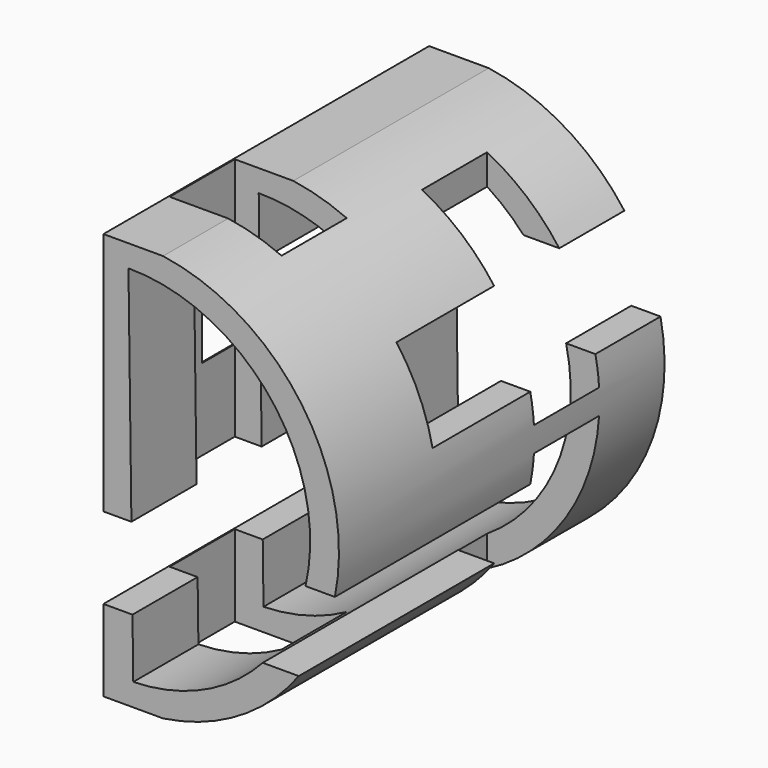
from build123d import *

# Parameters (mm, degrees)
F0_W     = 50.8
F0_H     = 50.799992591
F1_DEPTH = 50.8
F5_DEPTH = 50.8
F6_W     = 35.56
F6_H     = 10.16
F7_DEPTH = 50.8
F8_W     = 13.97
F8_H     = 10.16
F9_DEPTH = 50.8


with BuildPart() as f1:
    # F0 (on Front) → F1 (new body)
    with BuildSketch(Plane.XZ):
        with Locations((25.4, 25.3999962955)):
            Rectangle(F0_W, F0_H)
    extrude(amount=F1_DEPTH)

    # F4 (on face) → F5 (cut)
    with BuildSketch(Plane.XZ.offset(50.8)):
        Polygon((20.32, 50.799992591), (0, 50.799992591), (0, 0), (13.762652874, 0), (20.32, 0), align=None)
        with BuildLine():
            ThreePointArc((24.0402308716, 2.7991833631), (46.1192378047, 25.7211648984), (23.4431624413, 48.0526536703))
            Line((23.4431624413, 48.0526536703), (24.0402308716, 2.7991833631))
        make_face()
        with BuildLine():
            Line((50.8, 50.799992591), (27.7604617432, 50.799992591))
            ThreePointArc((27.7604617432, 50.799992591), (49.7112248054, 25.3999962955), (27.7604617432, 0))
            Line((27.7604617432, 0), (50.8, 0))
            Line((50.8, 0), (50.8, 50.799992591))
        make_face()
    extrude(amount=-F5_DEPTH, mode=Mode.SUBTRACT)

    # F6 (on offset) → F7 (cut)
    with BuildSketch(Plane.YZ.offset(50.8)):
        with Locations((-17.78, 35.56)):
            Rectangle(F6_W, F6_H)
        with Locations((-33.02, 15.24)):
            Rectangle(F6_W, F6_H)
    extrude(amount=-F7_DEPTH, mode=Mode.SUBTRACT)

    # F8 (on offset) → F9 (cut)
    with BuildSketch(Plane.XY.offset(50.8)):
        with Locations((42.6789473106, -15.24)):
            Rectangle(F8_W, F8_H)
        with Locations((27.4389473106, -35.56)):
            Rectangle(F8_W, F8_H)
    extrude(amount=-F9_DEPTH, mode=Mode.SUBTRACT)


solid = f1.part
